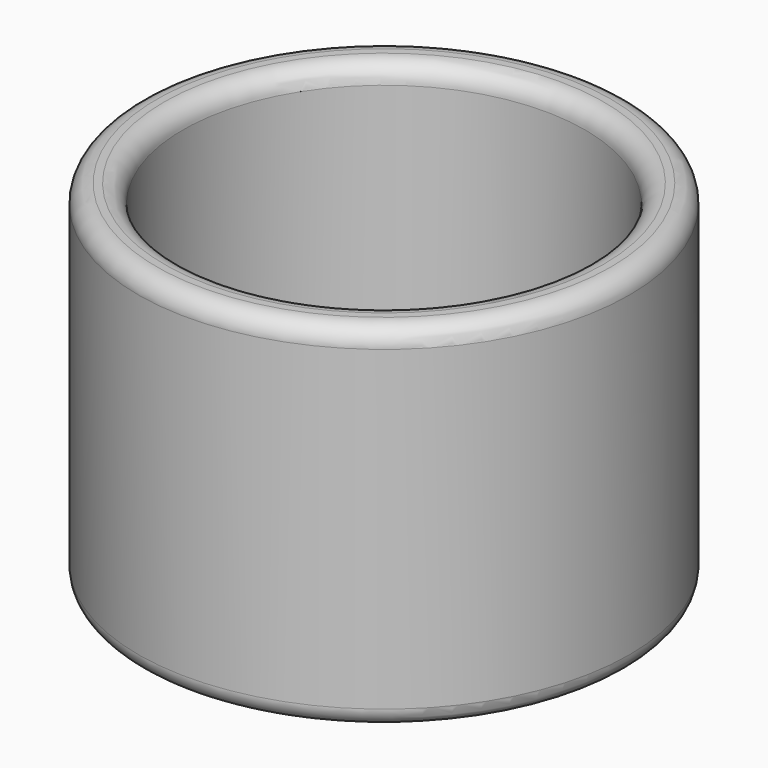
from build123d import *

# Parameters (mm, degrees)
F0_R     = 7.9375
F0_R_2   = 6.5
F1_DEPTH = 11.43
F2_R     = 0.6
F3_R     = 0.6


with BuildPart() as f1:
    # F0 (on Top) → F1 (new body)
    with BuildSketch(Plane.XY):
        Circle(F0_R)
        Circle(F0_R_2, mode=Mode.SUBTRACT)
    extrude(amount=F1_DEPTH)

    # F2
    f2_edges = [f1.edges().sort_by_distance(p)[0] for p in [
        (-6.5, 0, 0),
        (-7.9375, 0, 11.43),
        (-6.5, 0, 11.43),
    ]]
    fillet(f2_edges, radius=F2_R)

    # F3
    f3_edges = [f1.edges().sort_by_distance(p)[0] for p in [
        (-7.9375, 0, 0),
    ]]
    fillet(f3_edges, radius=F3_R)


solid = f1.part
